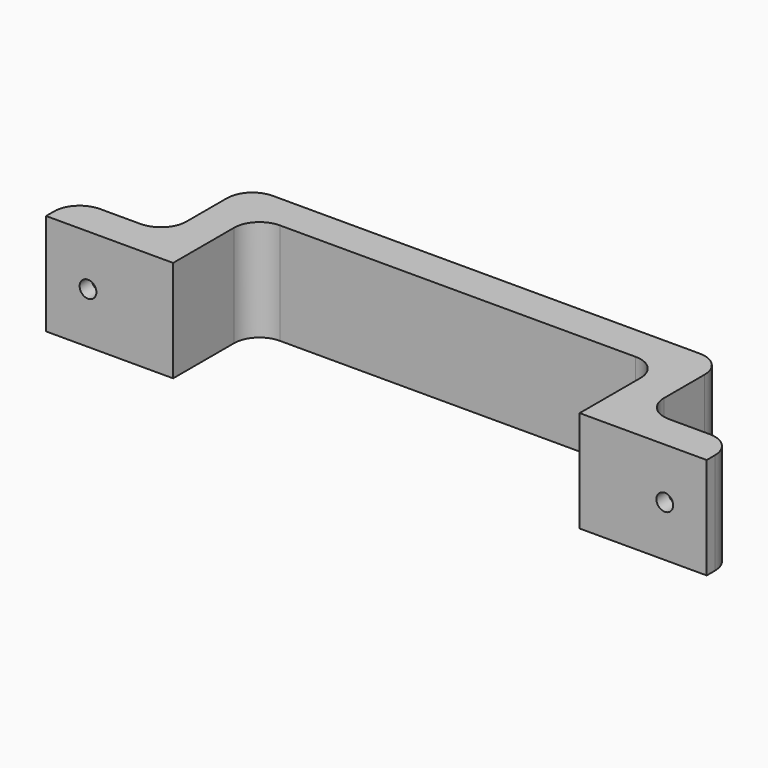
from build123d import *

# Parameters (mm, degrees)
F1_DEPTH = 20
F2_R     = 5
F4_R     = 3.25
F5_DEPTH = 25
F6_R     = 1.65
F7_DEPTH = 25


with BuildPart() as f1:
    # F0 (on Top) → F1 (new body)
    with BuildSketch(Plane.XY):
        Polygon((-40, 20), (0, 20), (40, 20), (40, 0), (65, 0), (65, 7), (47, 7), (47, 27), (0, 27), (-47, 27), (-47, 7), (-65, 7), (-65, 0), (-40, 0), align=None)
    extrude(amount=F1_DEPTH)

    # F2
    f2_edges = [f1.edges().sort_by_distance(p)[0] for p in [
        (40, 20, 10),
        (47, 27, 10),
        (-40, 20, 10),
        (-47, 27, 10),
        (47, 7, 10),
        (-47, 7, 10),
        (65, 7, 10),
        (-65, 7, 10),
    ]]
    fillet(f2_edges, radius=F2_R)

    # F4 (on offset) → F5 (cut)
    with BuildSketch(Plane.XZ.offset(-3)):
        with Locations((-56.75, 10)):
            Circle(F4_R)
        with Locations((56.75, 10)):
            Circle(F4_R)
    extrude(amount=-F5_DEPTH, mode=Mode.SUBTRACT)

    # F6 (on face) → F7 (cut)
    with BuildSketch(Plane(origin=(0, 3, 0), x_dir=(-1, 0, 0), z_dir=(0, 1, 0))):
        with Locations((-56.75, 10)):
            Circle(F6_R)
        with Locations((56.75, 10)):
            Circle(F6_R)
    extrude(amount=-F7_DEPTH, mode=Mode.SUBTRACT)


solid = f1.part
